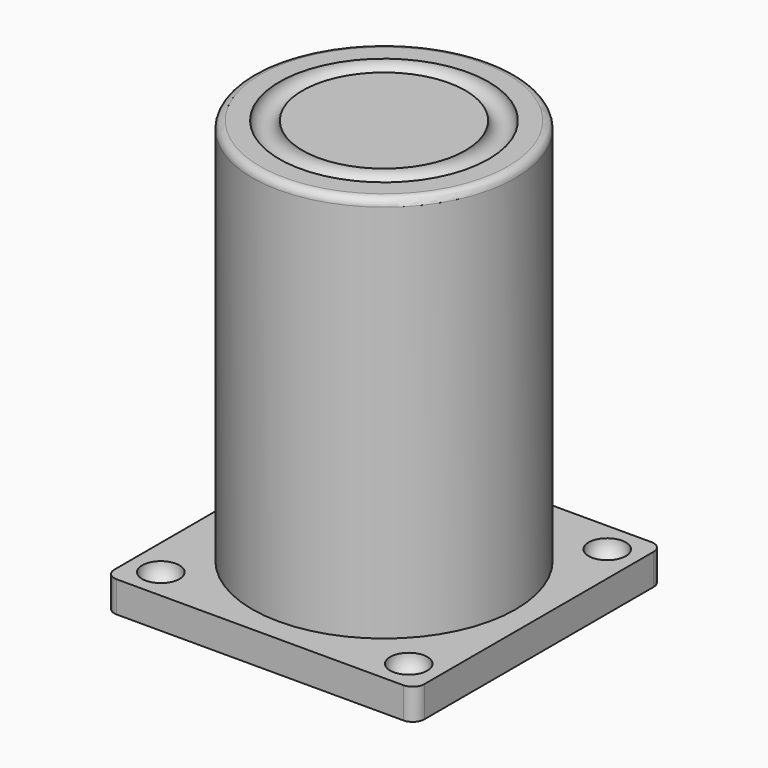
from build123d import *

# Parameters (mm, degrees)
TORUS_R        = 1.5
CYLINDER_R     = 17
CYLINDER_DEPTH = 50
FILLET001_R    = 1
ARRAY_X_COUNT  = 2
ARRAY_X_PITCH  = 32
ARRAY_Y_COUNT  = 2
ARRAY_Y_PITCH  = 32
BOX_W          = 40
BOX_H          = 40
BOX_DEPTH      = 4
FILLET_R       = 1.5


with BuildPart() as part_cilindre:
    # Torus → Torus (revolve)
    with BuildSketch(Plane(origin=(0, 0, 50), x_dir=(1, 0, 0), z_dir=(0, -1, 0))):
        with Locations((12, 0)):
            Circle(TORUS_R)
    revolve(axis=Axis((0, 0, 50), (0, 0, 1)))


with BuildPart() as obj1:
    # Cylinder → Cylinder (new body)
    with BuildSketch(Plane.XY):
        Circle(CYLINDER_R)
    extrude(amount=CYLINDER_DEPTH)

    # Fillet001
    fillet001_edges = [obj1.edges().sort_by_distance(p)[0] for p in [
        (-17, 0, 50),
    ]]
    fillet(fillet001_edges, radius=FILLET001_R)

    # Cut001: cut part_cilindre
    add(part_cilindre.part, mode=Mode.SUBTRACT)


with BuildPart() as obj1_1:
    # Cut001 placement: moved
    add(obj1.part.moved(Location((20, 20, 4))))


with BuildPart() as array:
    # Sphere → Sphere (revolve)
    with BuildSketch(Plane(origin=(4, 4, 4), x_dir=(1, 0, 0), z_dir=(0, -1, 0))):
        with BuildLine():
            ThreePointArc((0, -2.4), (2.4, 0), (0, 2.4))
            Line((0, 2.4), (0, -2.4))
        make_face()
    revolve(axis=Axis((4, 4, 4), (0, 0, 1)))

    # Array X: Array ×2


with BuildPart() as array_1:
    add(array.part)
    with Locations(*[(i * ARRAY_X_PITCH, 0, 0) for i in range(1, ARRAY_X_COUNT)]):
        add(array.part)

    # Array Y: Array ×2


with BuildPart() as array_2:
    add(array_1.part)
    with Locations(*[(0, i * ARRAY_Y_PITCH, 0) for i in range(1, ARRAY_Y_COUNT)]):
        add(array_1.part)


with BuildPart() as obj2:
    # Box → Box (new body)
    with BuildSketch(Plane.XY):
        with Locations((20, 20)):
            Rectangle(BOX_W, BOX_H)
    extrude(amount=BOX_DEPTH)

    # Fillet
    fillet_edges = [obj2.edges().sort_by_distance(p)[0] for p in [
        (0, 0, 2),
        (0, 40, 2),
        (40, 0, 2),
        (40, 40, 2),
    ]]
    fillet(fillet_edges, radius=FILLET_R)

    # Cut: cut Array
    add(array_2.part, mode=Mode.SUBTRACT)

    # Fusion: union obj1
    add(obj1_1.part)


solid = obj2.part
